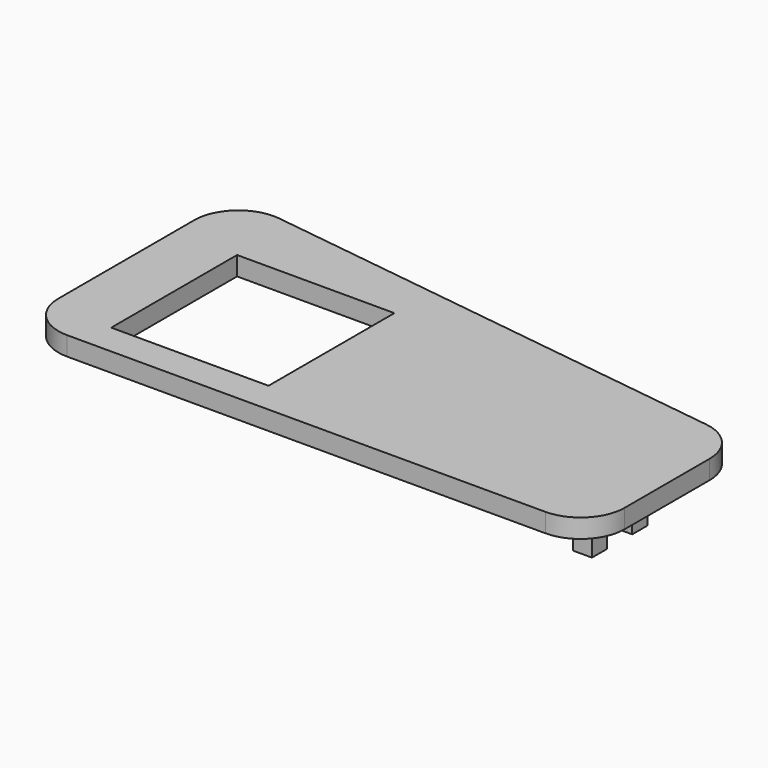
from build123d import *

# Parameters (mm, degrees)
PAD_DEPTH    = 3
SKETCH001_W  = 3
SKETCH001_H  = 3
PAD001_DEPTH = 3
FILLET_R     = 7
SKETCH002_W  = 25
SKETCH002_H  = 25
POCKET_DEPTH = 5


with BuildPart() as part:
    # Sketch → Pad (new body)
    with BuildSketch(Plane.XY):
        Polygon((0, 42), (0, 0), (90, 0), (90, 30), align=None)
    extrude(amount=PAD_DEPTH)

    # Sketch001 (on Face5 of Pad) → Pad001 (join)
    with BuildSketch(Plane(origin=(0, 0, 0), x_dir=(1, 0, 0), z_dir=(0, 0, -1))):
        with Locations((86.5, -4.5)):
            Rectangle(SKETCH001_W, SKETCH001_H)
        with Locations((86.5, -12.5)):
            Rectangle(SKETCH001_W, SKETCH001_H)
        with Locations((76.5, -15.5)):
            Rectangle(SKETCH001_W, SKETCH001_H)
        with Locations((48.5, -15.5)):
            Rectangle(SKETCH001_W, SKETCH001_H)
    extrude(amount=PAD001_DEPTH)

    # Fillet
    fillet_edges = [part.edges().sort_by_distance(p)[0] for p in [
        (0, 42, 1.5),
        (0, 0, 1.5),
        (90, 0, 1.5),
        (90, 30, 1.5),
    ]]
    fillet(fillet_edges, radius=FILLET_R)

    # Sketch002 (on Face2 of Fillet) → Pocket (cut)
    with BuildSketch(Plane(origin=(0, 0, 0), x_dir=(1, 0, 0), z_dir=(0, 0, -1))):
        with Locations((22.5, -17.5)):
            Rectangle(SKETCH002_W, SKETCH002_H)
    extrude(amount=-POCKET_DEPTH, mode=Mode.SUBTRACT)


solid = part.part
